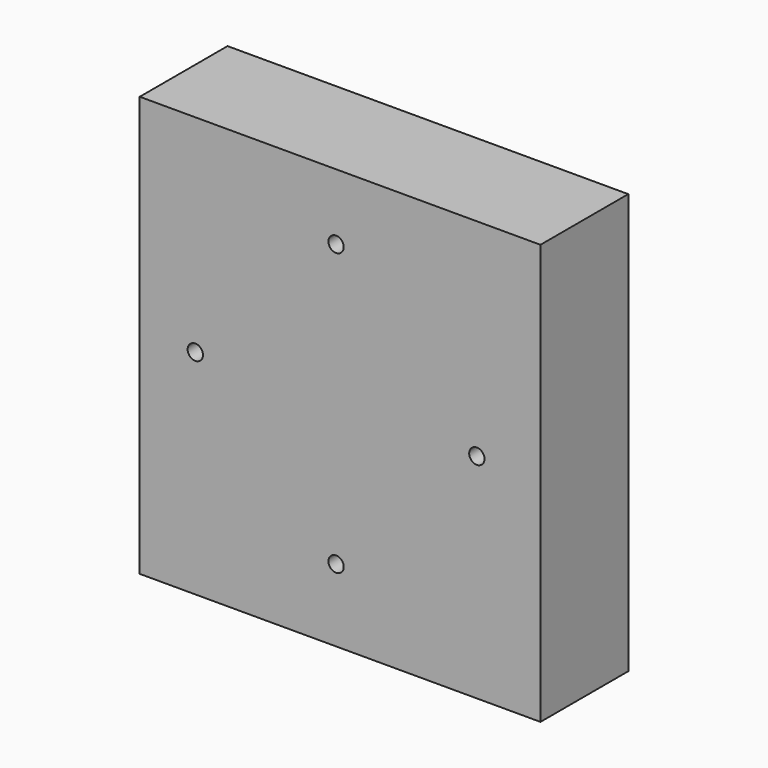
from build123d import *

# Parameters (mm, degrees)
F0_W     = 73.0307288468
F0_H     = 76.5502825379
F1_DEPTH = 20
F2_W     = 12.9050291143
F2_H     = 25.5167605355
F3_DEPTH = 10
F5_D     = 2.794


with BuildPart() as f1:
    # F0 (on Front) → F1 (new body)
    with BuildSketch(Plane.XZ):
        with Locations((0.7332395762, -0.586591661)):
            Rectangle(F0_W, F0_H)
    extrude(amount=F1_DEPTH)

    # F2 (on face) → F3 (cut)
    with BuildSketch(Plane(origin=(0, 0, 0), x_dir=(-1, 0, 0), z_dir=(0, 1, 0))):
        with Locations((-0.2932955977, -1.4664805494)):
            Rectangle(F2_W, F2_H)
    extrude(amount=-F3_DEPTH, mode=Mode.SUBTRACT)

    # F5 (through all)
    with Locations(Plane.XZ.offset(20)):
        with Locations((0, 25.6550256172), (-25.6550256172, 0), (0, -25.6550256172), (25.6550256172, 0)):
            Hole(F5_D / 2)


solid = f1.part
